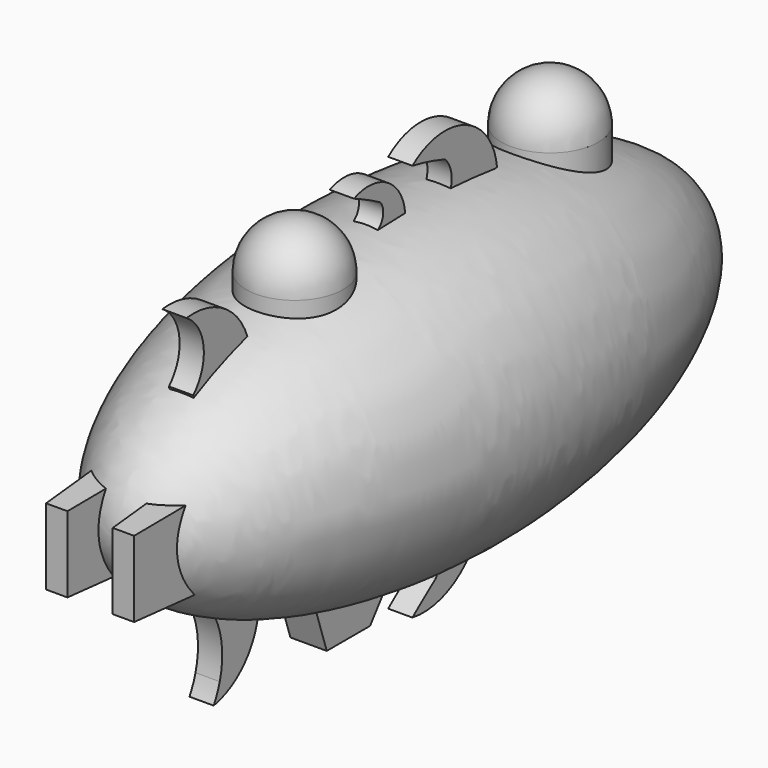
from build123d import *

# Parameters (mm, degrees)
F2_R      = 4
F3_DEPTH  = 12
F8_DEPTH  = 1
F10_W     = 5
F10_H     = 10.3801261594
F11_DEPTH = 2.875
F12_SIZE  = 4
F14_DEPTH = 1.5
F16_W     = 2.5
F16_H     = 7
F17_DEPTH = 7
F17_TAPER = 3


with BuildPart() as f1:
    # F0 (on Top) → F1 (revolve)
    with BuildSketch(Plane.XY):
        with BuildLine():
            Line((0, -29.2717246418), (0, 29.2717246418))
            add(Edge.make_bspline(
                [(0, 29.2717246418), (-12.5, 29.2717246418), (-12.5, 0), (-12.5, -29.2717246418), (0, -29.2717246418)],
                knots=[0, 0, 0, 1.5707963268, 1.5707963268, 3.1415926536, 3.1415926536, 3.1415926536], degree=2, weights=[1, 0.7071067812, 1, 0.7071067812, 1]))
        make_face()
    revolve(axis=Axis((0, 0, 0), (0, 1, 0)))

    # F2 (on Top) → F3 (join)
    with BuildSketch(Plane.XY):
        with Locations((0, 15.4376327791)):
            Circle(F2_R)
        with Locations((0, -10.9076060421)):
            Circle(F2_R)
    extrude(amount=F3_DEPTH)

    # F5 (on offset) → F6 (revolve)
    with BuildSketch(Plane.XY.offset(12)):
        with BuildLine():
            Line((0, 11.4376327791), (0, 19.4376327791))
            ThreePointArc((0, 19.4376327791), (-4, 15.4376327791), (0, 11.4376327791))
        make_face()
        with BuildLine():
            Line((0, -14.9076060421), (0, -6.9076060421))
            ThreePointArc((0, -6.9076060421), (-4, -10.9076060421), (0, -14.9076060421))
        make_face()
    revolve(axis=Axis((0, 15.4376327791, 12), (0, -1, 0)))

    # F10 (on offset) → F11 (join, symmetric)
    with BuildSketch(Plane.XY.offset(-9)):
        with Locations((0, 19.9972980516)):
            Rectangle(F10_W, F10_H)
    extrude(amount=F11_DEPTH, both=True)

    # F12
    f12_edges = [f1.edges().sort_by_distance(p)[0] for p in [
        (0, 25.187361, -11.875),
    ]]
    chamfer(f12_edges, length=F12_SIZE)

    # F13 (on Right) → F14 (join, symmetric)
    with BuildSketch(Plane.YZ):
        Polygon((-4.9916151911, -15.6495533884), (-2.3343067151, -12.1467364952), (-10.7893804088, -11.6635896266), (-9.4607267529, -15.6495533884), align=None)
    extrude(amount=F14_DEPTH, both=True)



with BuildPart() as f8:
    # F7 (on Right) → F8 (new body, symmetric)
    with BuildSketch(Plane.YZ):
        with BuildLine():
            ThreePointArc((-19.8747947142, -13.8117735022), (-20.141976006, -14.5753815079), (-20.499303937, -15.301191248))
            ThreePointArc((-20.499303937, -15.301191248), (-17.391729762, -13.6019858145), (-15.8963371068, -10.3913601488))
            ThreePointArc((-15.8963371068, -10.3913601488), (-18.1933454597, -11.7435726996), (-19.8747947142, -13.8117735022))
        make_face()
        with BuildLine():
            ThreePointArc((-19.8747947142, -13.8117735022), (-18.1933454597, -11.7435726996), (-15.8963371068, -10.3913601488))
            Line((-15.8963371068, -10.3913601488), (-20.499303937, -8.6715500802))
            ThreePointArc((-20.499303937, -8.6715500802), (-19.6700331667, -11.1788471364), (-19.8747947142, -13.8117735022))
        make_face()
    extrude(amount=F8_DEPTH, both=True)


with BuildPart() as f8b:
    # F7 (on Right) → F8, piece 2 (new body, symmetric)
    with BuildSketch(Plane.YZ):
        Polygon((1.3095580507, -12.6616256312), (7.2292480618, -12.2580109164), (7.0908544936, -11.4598258401), (1.2547478521, -11.8577416959), align=None)
        with BuildLine():
            ThreePointArc((2.3847031308, -15.3935547073), (4.7640265309, -13.7594247283), (7.2292480618, -12.2580109164))
            Line((7.2292480618, -12.2580109164), (1.3095580507, -12.6616256312))
            ThreePointArc((1.3095580507, -12.6616256312), (2.6056524102, -13.7290754642), (2.3847031308, -15.3935547073))
        make_face()
        with BuildLine():
            ThreePointArc((2.3847031308, -15.3935547073), (1.1791804507, -16.2976946589), (0, -17.2359310091))
            ThreePointArc((0, -17.2359310091), (4.6437576193, -16.2415433666), (7.2292480618, -12.2580109164))
            ThreePointArc((7.2292480618, -12.2580109164), (4.7640265309, -13.7594247283), (2.3847031308, -15.3935547073))
        make_face()
    extrude(amount=F8_DEPTH, both=True)


with BuildPart() as f8c:
    # F7 (on Right) → F8, piece 3 (new body, symmetric)
    with BuildSketch(Plane.YZ):
        with BuildLine():
            ThreePointArc((3.3618869867, 14.6903259641), (6.137629898, 13.4979840775), (8.7291654199, 11.9454469532))
            ThreePointArc((8.7291654199, 11.9454469532), (5.4418431559, 16.3478839523), (0, 15.5900698155))
            ThreePointArc((0, 15.5900698155), (1.6983202528, 15.2051260372), (3.3618869867, 14.6903259641))
        make_face()
        with BuildLine():
            Line((3.3618869867, 11.3662213352), (8.7291654199, 11.9454469532))
            ThreePointArc((8.7291654199, 11.9454469532), (6.137629898, 13.4979840775), (3.3618869867, 14.6903259641))
            ThreePointArc((3.3618869867, 14.6903259641), (4.0532645128, 13.0282736497), (3.3618869867, 11.3662213352))
        make_face()
    extrude(amount=F8_DEPTH, both=True)


with BuildPart() as f8d:
    # F7 (on Right) → F8, piece 4 (new body, symmetric)
    with BuildSketch(Plane.YZ):
        with BuildLine():
            ThreePointArc((-3.3249446804, 14.2911790755), (-2.028404438, 13.5104125817), (-0.7731781992, 12.6648240248))
            ThreePointArc((-0.7731781992, 12.6648240248), (-2.6646583606, 15.4534523913), (-6.0284912789, 15.6503621814))
            ThreePointArc((-6.0284912789, 15.6503621814), (-4.6594544382, 15.0051094814), (-3.3249446804, 14.2911790755))
        make_face()
        with BuildLine():
            Line((-3.764549131, 12.2498622852), (-0.7731781992, 12.6648240248))
            ThreePointArc((-0.7731781992, 12.6648240248), (-2.028404438, 13.5104125817), (-3.3249446804, 14.2911790755))
            ThreePointArc((-3.3249446804, 14.2911790755), (-3.0413973844, 13.1621226645), (-3.764549131, 12.2498622852))
        make_face()
        with BuildLine():
            Line((-0.6242947283, 11.5915547464), (-0.7731781992, 12.6648240248))
            Line((-0.7731781992, 12.6648240248), (-3.764549131, 12.2498622852))
            ThreePointArc((-3.764549131, 12.2498622852), (-4.1470627833, 12.1356739764), (-4.5462150516, 12.1414299116))
            Line((-4.5462150516, 12.1414299116), (-4.5870087585, 11.0418486935))
            Line((-4.5870087585, 11.0418486935), (-0.6242947283, 11.5915547464))
        make_face()
    extrude(amount=F8_DEPTH, both=True)


with BuildPart() as f8e:
    # F7 (on Right) → F8, piece 5 (new body, symmetric)
    with BuildSketch(Plane.YZ):
        Polygon((-16.6191068731, 8.8208775126), (-16.9373191893, 9.8522817716), (-22.6128519365, 8.1012472906), (-22.3663308251, 7.0477246196), align=None)
        with BuildLine():
            Line((-22.6128519365, 8.1012472906), (-16.9373191893, 9.8522817716))
            ThreePointArc((-16.9373191893, 9.8522817716), (-19.6914996821, 11.1139431522), (-22.1526498768, 12.8803064628))
            ThreePointArc((-22.1526498768, 12.8803064628), (-21.532770934, 10.4089276005), (-22.6128519365, 8.1012472906))
        make_face()
        with BuildLine():
            ThreePointArc((-22.1526498768, 12.8803064628), (-19.6914996821, 11.1139431522), (-16.9373191893, 9.8522817716))
            ThreePointArc((-16.9373191893, 9.8522817716), (-19.3718198017, 13.0785461986), (-23.3070980757, 14.0000451356))
            ThreePointArc((-23.3070980757, 14.0000451356), (-22.6699779959, 13.501928428), (-22.1526498768, 12.8803064628))
        make_face()
    extrude(amount=F8_DEPTH, both=True)


with BuildPart() as f1_1:
    add(f1.part)

    add(f8.part)  # F17 merges F8

    add(f8b.part)  # F17 merges F8b

    add(f8c.part)  # F17 merges F8c

    add(f8d.part)  # F17 merges F8d

    add(f8e.part)  # F17 merges F8e
    # F16 (on offset) → F17 (join)
    with BuildSketch(Plane.XZ.offset(25)):
        with Locations((2.75, -0.5639028562)):
            Rectangle(F16_W, F16_H)
        with Locations((-2.75, -0.5639028562)):
            Rectangle(F16_W, F16_H)
    extrude(amount=F17_DEPTH, taper=F17_TAPER)


solid = f1_1.part
